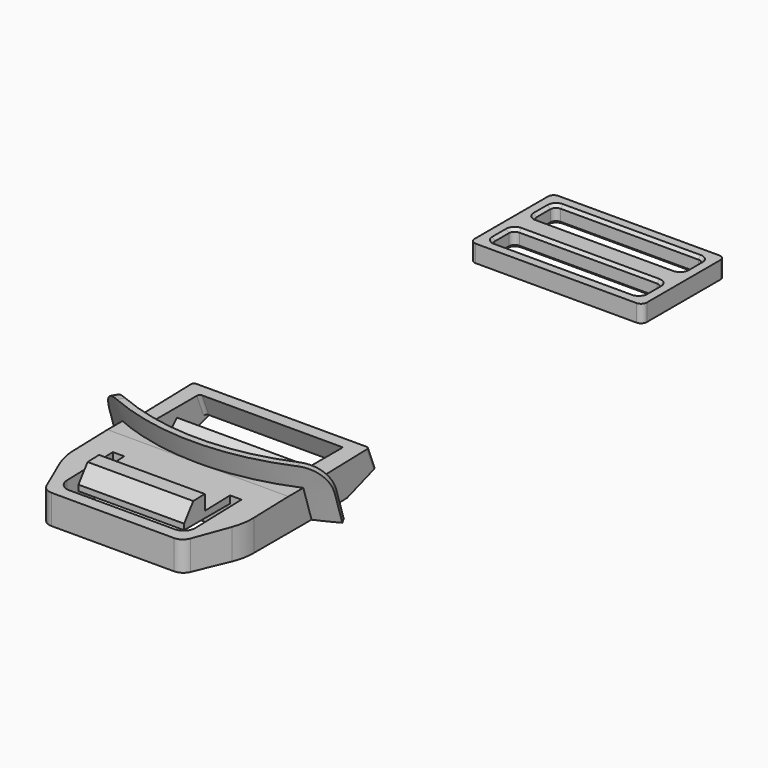
from build123d import *

# Parameters (mm, degrees)
F4_DEPTH       = 5.6
F6_DEPTH       = 19.5916736751
F6_DEPTH_BACK  = 19.5916736751
F8_DEPTH       = 9.2
F8_DEPTH_BACK  = 9.2
F9_W           = 18.4
F9_H           = 10
F11_DEPTH      = 4.2083354886
F13_DEPTH      = 5.6
F15_DEPTH      = 25
F16_DEPTH      = 7.0916736751
F16_DEPTH_BACK = 32.0916736751
F17_R          = 2
F18_R          = 10
F19_R          = 5
F20_R          = 0.5
F21_W          = 30
F21_H          = 18
F21_W_2        = 26
F21_H_2        = 5
F22_DEPTH      = 3
F23_R          = 1
F24_SIZE       = 0.5


with BuildPart() as f2:
    # F2: sweep along a path in F1
    with BuildLine(Plane.YZ) as f2_path:
        Line((-5, 0), (-8, 9.4))
    # F0 (on Top) → F2 (sweep)
    with BuildSketch(Plane.XY):
        with BuildLine():
            ThreePointArc((19, 0), (0, -5), (-19, 0))
            Line((-19, 0), (-19.5906735751, -1.0445595855))
            ThreePointArc((-19.5906735751, -1.0445595855), (0, -6.2), (19.5906735751, -1.0445595855))
            Line((19.5906735751, -1.0445595855), (19, 0))
        make_face()
    sweep(path=f2_path.line)

    # F3 (on Top) → F4 (join)
    with BuildSketch(Plane.XY):
        with BuildLine():
            Line((-15.75, -17.5), (-12, -26.5))
            Line((-12, -26.5), (12, -26.5))
            Line((12, -26.5), (15.75, -17.5))
            Line((15.75, -17.5), (15.75, -1.6405661135))
            ThreePointArc((15.75, -1.6405661135), (0, -5), (-15.75, -1.6405661135))
            Line((-15.75, -1.6405661135), (-15.75, -17.5))
        make_face()
        Polygon((11.2, -24.5), (-11.2, -24.5), (-11.2, -12.5), (-9.2, -12.5), (-9.2, -22.5), (9.2, -22.5), (9.2, -12.5), (11.2, -12.5), align=None, mode=Mode.SUBTRACT)
    extrude(amount=F4_DEPTH)

    # F5 (on Right) → F6 (cut, two sides)
    with BuildSketch(Plane.YZ) as f6_sk:
        Polygon((-26.5, 5.1003851469), (-7.9872340426, 5.6), (-26.5, 5.6), align=None)
    extrude(amount=-F6_DEPTH, mode=Mode.SUBTRACT)
    extrude(f6_sk.sketch, amount=F6_DEPTH_BACK, mode=Mode.SUBTRACT)

    # F7 (on Right) → F8 (join, two sides)
    with BuildSketch(Plane.YZ) as f8_sk:
        Polygon((-20.5007279322, 7.8622910144), (-22.5, 5.2083354886), (-18.0016378474, 5.3297354216), (-18.0016378474, 7.9297354216), align=None)
    extrude(amount=-F8_DEPTH)
    extrude(f8_sk.sketch, amount=F8_DEPTH_BACK)

    # F9 (on face) → F11 (cut, through all)
    with BuildSketch(Plane(origin=(0, 0, 0), x_dir=(1, 0, 0), z_dir=(0, 0, -1))):
        with Locations((0, 17.5)):
            Rectangle(F9_W, F9_H)
    extrude(amount=-F11_DEPTH, mode=Mode.SUBTRACT)

    # F12 (on Top) → F13 (join, through all)
    with BuildSketch(Plane.XY):
        Polygon((-12.5, -2.9510259774), (-12.5, 12.0428740201), (-15.3222584115, 12.0428740201), (-14.894516823, -2.9510259774), align=None)
        Polygon((15.3222584115, 12.0428740201), (12.5, 12.0428740201), (12.5, -2.9510259774), (15.75, -2.9510259774), align=None)
    extrude(amount=F13_DEPTH)

    # F14 (on face) → F15 (join, through all)
    with BuildSketch(Plane(origin=(12.5, 0, 0), x_dir=(0, -1, 0), z_dir=(-1, 0, 0))):
        Polygon((-5.0800054765, 0), (-1.0800054765, 0), (-1.0800054765, 2), (-3.0800054765, 4), (-5.0800054765, 2), align=None)
        Polygon((-10.0967195195, 5.6), (-11.5512139325, 2), (-9.3941444472, 2), (-7.9396500342, 5.6), align=None)
    extrude(amount=F15_DEPTH)

    # F14 (on face) → F16 (cut, two sides)
    with BuildSketch(Plane(origin=(12.5, 0, 0), x_dir=(0, -1, 0), z_dir=(-1, 0, 0))) as f16_sk:
        Polygon((-12.0428740201, 0), (-5.0800054765, 0), (-11.5512139325, 2), (-10.0967195195, 5.6), (-12.0428740201, 5.6), align=None)
    extrude(amount=-F16_DEPTH, mode=Mode.SUBTRACT)
    extrude(f16_sk.sketch, amount=F16_DEPTH_BACK, mode=Mode.SUBTRACT)

    # F17
    f17_edges = [f2.edges().sort_by_distance(p)[0] for p in [
        (-11.2, -24.5, 2.57718),
        (11.2, -24.5, 2.57718),
        (-12, -26.5, 2.550193),
        (12, -26.5, 2.550193),
    ]]
    fillet(f17_edges, radius=F17_R)

    # F18
    f18_edges = [f2.edges().sort_by_distance(p)[0] for p in [
        (15.75, -17.5, 2.671637),
        (-15.75, -17.5, 2.671637),
    ]]
    fillet(f18_edges, radius=F18_R)

    # F19
    f19_edges = [f2.edges().sort_by_distance(p)[0] for p in [
        (-19.295337, -3.52228, 9.4),
        (19.295337, -3.52228, 9.4),
    ]]
    fillet(f19_edges, radius=F19_R)

    # F20
    f20_edges = [f2.edges().sort_by_distance(p)[0] for p in [
        (-15.287486, 10.823967, 3.8),
        (15.357031, 10.823967, 3.8),
        (-12.5, 8.666897, 3.8),
    ]]
    fillet(f20_edges, radius=F20_R)


with BuildPart() as f22:
    # F21 (on Top) → F22 (new body)
    with BuildSketch(Plane.XY):
        with Locations((0, 78.9496248718)):
            Rectangle(F21_W, F21_H)
        with Locations((0, 74.4496248718)):
            Rectangle(F21_W_2, F21_H_2, mode=Mode.SUBTRACT)
        with Locations((0, 83.4496248718)):
            Rectangle(F21_W_2, F21_H_2, mode=Mode.SUBTRACT)
    extrude(amount=F22_DEPTH)

    # F23
    f23_edges = [f22.edges().sort_by_distance(p)[0] for p in [
        (-13, 85.949625, 1.5),
        (13, 85.949625, 1.5),
        (-13, 76.949625, 1.5),
        (-13, 71.949625, 1.5),
        (13, 71.949625, 1.5),
        (13, 76.949625, 1.5),
        (15, 69.949625, 1.5),
        (-15, 69.949625, 1.5),
        (-15, 87.949625, 1.5),
        (13, 80.949625, 1.5),
        (-13, 80.949625, 1.5),
        (15, 87.949625, 1.5),
    ]]
    fillet(f23_edges, radius=F23_R)

    # F24
    f24_edges = [f22.edges().sort_by_distance(p)[0] for p in [
        (0, 80.949625, 3),
        (-13, 83.449625, 3),
        (-12.707107, 85.656732, 3),
        (0, 76.949625, 3),
        (0, 76.949625, 0),
        (0, 80.949625, 0),
    ]]
    chamfer(f24_edges, length=F24_SIZE)


solid = Compound([f2.part, f22.part])
